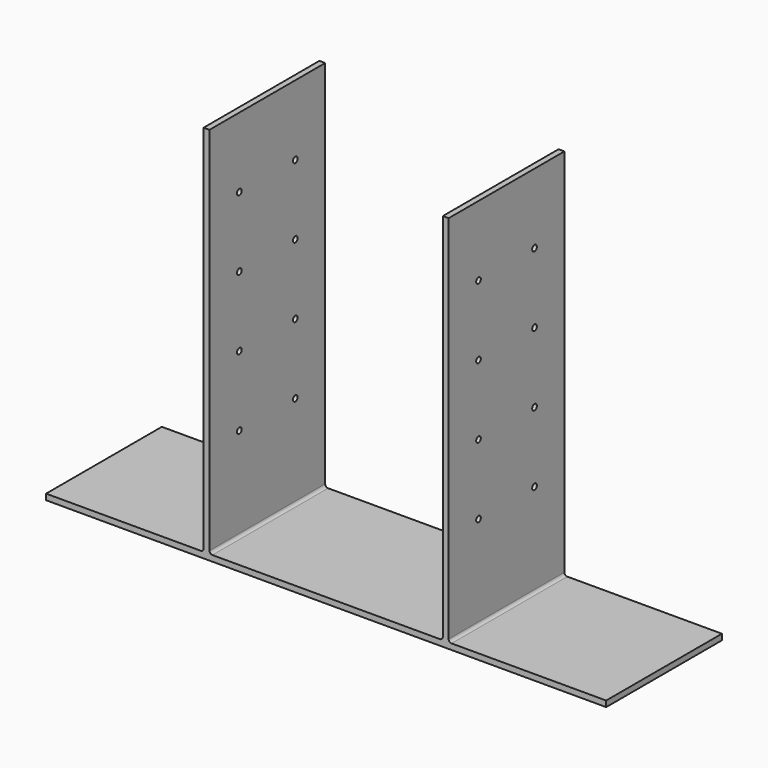
from build123d import *

# Parameters (mm, degrees)
F1_DEPTH = 157.48
F2_R     = 3.175
F3_DEPTH = 438.151


with BuildPart() as f1:
    # F0 (on Front) → F1 (new body)
    with BuildSketch(Plane.XZ):
        with BuildLine():
            Line((-103.561188, -56.931033), (-103.561188, -63.281033))
            Line((-103.561188, -63.281033), (201.238812, -63.281033))
            Line((201.238812, -63.281033), (201.238812, -56.931033))
            Line((201.238812, -56.931033), (32.963812, -56.931033))
            ThreePointArc((32.963812, -56.931033), (30.718748, -56.001097), (29.788812, -53.756033))
            Line((29.788812, -53.756033), (29.788812, 349.468967))
            Line((29.788812, 349.468967), (23.438812, 349.468967))
            Line((23.438812, 349.468967), (23.438812, -53.756033))
            ThreePointArc((23.438812, -53.756033), (22.508876, -56.001097), (20.263812, -56.931033))
            Line((20.263812, -56.931033), (-103.561188, -56.931033))
        make_face()
        with BuildLine():
            Line((-408.361188, -63.281033), (-103.561188, -63.281033))
            Line((-103.561188, -63.281033), (-103.561188, -56.931033))
            Line((-103.561188, -56.931033), (-227.386188, -56.931033))
            ThreePointArc((-227.386188, -56.931033), (-229.631252, -56.001097), (-230.561188, -53.756033))
            Line((-230.561188, -53.756033), (-230.561188, 349.468967))
            Line((-230.561188, 349.468967), (-236.911188, 349.468967))
            Line((-236.911188, 349.468967), (-236.911188, -53.756033))
            ThreePointArc((-236.911188, -53.756033), (-237.841124, -56.001097), (-240.086188, -56.931033))
            Line((-240.086188, -56.931033), (-408.361188, -56.931033))
            Line((-408.361188, -56.931033), (-408.361188, -63.281033))
        make_face()
    extrude(amount=F1_DEPTH)

    # F2 (on face) → F3 (cut, through all)
    with BuildSketch(Plane(origin=(-236.911188, 0, 0), x_dir=(0, -1, 0), z_dir=(-1, 0, 0))):
        with Locations((40.64, 273.268967)):
            Circle(F2_R)
        with Locations((40.64, 197.068967)):
            Circle(F2_R)
        with Locations((40.64, 120.868967)):
            Circle(F2_R)
        with Locations((40.64, 44.668967)):
            Circle(F2_R)
        with Locations((116.84, 44.668967)):
            Circle(F2_R)
        with Locations((116.84, 120.868967)):
            Circle(F2_R)
        with Locations((116.84, 197.068967)):
            Circle(F2_R)
        with Locations((116.84, 273.268967)):
            Circle(F2_R)
    extrude(amount=-F3_DEPTH, mode=Mode.SUBTRACT)


solid = f1.part
